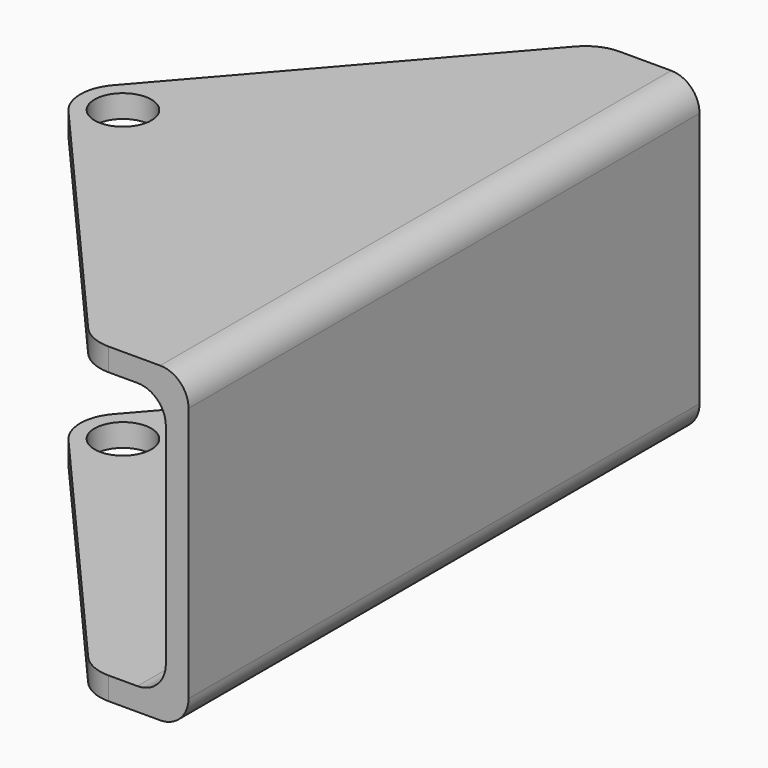
from build123d import *

# Parameters (mm, degrees)
F0_W     = 45
F0_H     = 22
F1_DEPTH = 1.6
F2_W     = 45
F2_H     = 1.6
F3_DEPTH = 25
F4_R     = 2
F5_DEPTH = 25
F6_R     = 2


with BuildPart() as f1:
    # F0 (on Right) → F1 (new body)
    with BuildSketch(Plane.YZ):
        with Locations((3.901578, -0.626537)):
            Rectangle(F0_W, F0_H)
    extrude(amount=F1_DEPTH)

    # F2 (on face) → F3 (join)
    with BuildSketch(Plane(origin=(0, 0, 0), x_dir=(0, -1, 0), z_dir=(-1, 0, 0))):
        with Locations((-3.901578, 9.573463)):
            Rectangle(F2_W, F2_H)
        with Locations((-3.901578, -10.826537)):
            Rectangle(F2_W, F2_H)
    extrude(amount=F3_DEPTH)

    # F4 (on face) → F5 (cut)
    with BuildSketch(Plane.XY.offset(10.373463)):
        with BuildLine():
            Line((-25, -18.598422), (-4.034702, -18.598422))
            ThreePointArc((-4.034702, -18.598422), (-5.277364, -18.328951), (-6.296786, -17.568949))
            Line((-6.296786, -17.568949), (-23.283452, 1.931051))
            ThreePointArc((-23.283452, 1.931051), (-24.021368, 3.901578), (-23.283452, 5.872105))
            Line((-23.283452, 5.872105), (-6.296786, 25.372105))
            ThreePointArc((-6.296786, 25.372105), (-5.277364, 26.132107), (-4.034702, 26.401578))
            Line((-4.034702, 26.401578), (-25, 26.401578))
            Line((-25, 26.401578), (-25, -18.598422))
        make_face()
        with Locations((-21.021368, 3.901578)):
            Circle(F4_R)
    extrude(amount=-F5_DEPTH, mode=Mode.SUBTRACT)

    # F6
    f6_edges = [f1.edges().sort_by_distance(p)[0] for p in [
        (1.6, 3.901578, -11.626537),
        (1.6, 3.901578, 10.373463),
        (0, 3.901578, -10.026537),
        (0, 3.901578, 8.773463),
    ]]
    fillet(f6_edges, radius=F6_R)


solid = f1.part
